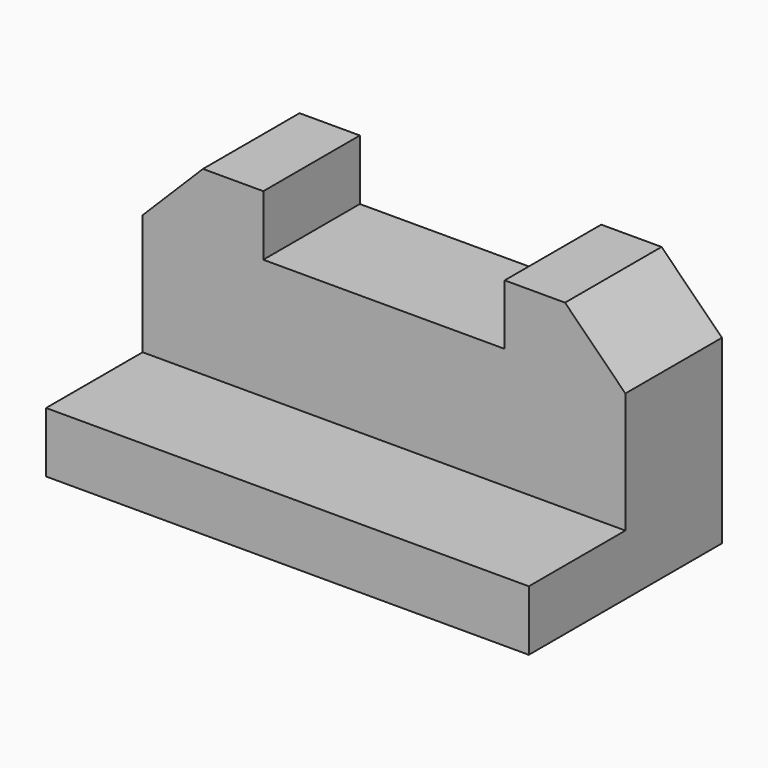
from build123d import *

# Parameters (mm, degrees)
F1_DEPTH = 203.2
F2_W     = 25.4
F2_H     = 101.6
F3_DEPTH = 25.4
F4_W     = 50.8
F4_H     = 101.6
F5_DEPTH = 25.4
F7_DEPTH = 50.8
F8_W     = 101.6
F8_H     = 50.8
F9_DEPTH = 25.4


with BuildPart() as f1:
    # F0 (on Right) → F1 (new body)
    with BuildSketch(Plane.YZ):
        Polygon((12.87863, -0.538062), (-37.92137, -0.538062), (-37.92137, -25.938062), (63.67863, -25.938062), (63.67863, -0.538062), (63.67863, 75.661938), (12.87863, 75.661938), align=None)
    extrude(amount=F1_DEPTH)

    # F2 (on face) → F3 (cut)
    with BuildSketch(Plane.XY.offset(-0.538062)):
        with Locations((-25.22137, -101.6)):
            Rectangle(F2_W, F2_H)
        with Locations((-25.22137, -101.6)):
            Rectangle(F2_W, F2_H)
    extrude(amount=-F3_DEPTH, mode=Mode.SUBTRACT)

    # F4 (on face) → F5 (cut)
    with BuildSketch(Plane.XY.offset(75.661938)):
        with Locations((38.27863, -101.6)):
            Rectangle(F4_W, F4_H)
        with Locations((38.27863, -101.6)):
            Rectangle(F4_W, F4_H)
    extrude(amount=-F5_DEPTH, mode=Mode.SUBTRACT)

    # F6 (on face) → F7 (cut)
    with BuildSketch(Plane.XZ.offset(-12.87863)):
        Polygon((203.2, 75.661938), (177.8, 75.661938), (203.2, 50.261938), align=None)
        Polygon((0, 50.261938), (25.4, 75.661938), (0, 75.661938), align=None)
    extrude(amount=-F7_DEPTH, mode=Mode.SUBTRACT)

    # F8 (on face) → F9 (cut)
    with BuildSketch(Plane.XY.offset(75.661938)):
        with Locations((101.6, 38.27863)):
            Rectangle(F8_W, F8_H)
    extrude(amount=-F9_DEPTH, mode=Mode.SUBTRACT)


solid = f1.part
